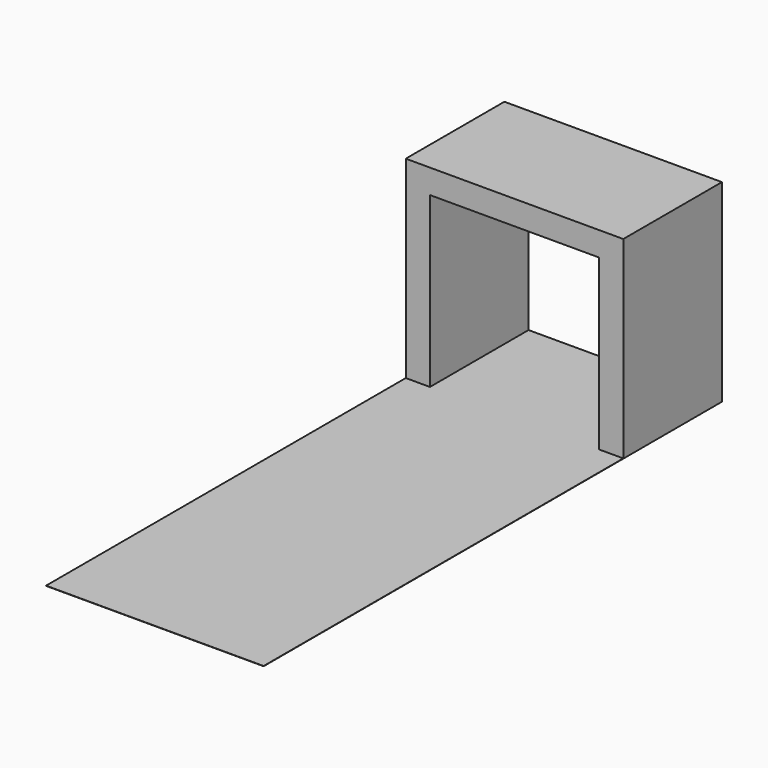
from build123d import *

# Parameters (mm, degrees)
F1_DEPTH = 510
F3_DEPTH = 2370


with BuildPart() as f1:
    # F0 (on Front) → F1 (new body)
    with BuildSketch(Plane.XZ):
        Polygon((450, 800), (0, 800), (-450, 800), (-450, 0), (-350, 0), (-350, 700), (0, 700), (350, 700), (350, 0), (450, 0), align=None)
    extrude(amount=F1_DEPTH)

    # F2 (on Front) → F3 (join)
    with BuildSketch(Plane.XZ):
        Polygon((-450, 0), (0, 0), (450, 0), (450, 1), (-450, 1), align=None)
    extrude(amount=F3_DEPTH)


solid = f1.part
